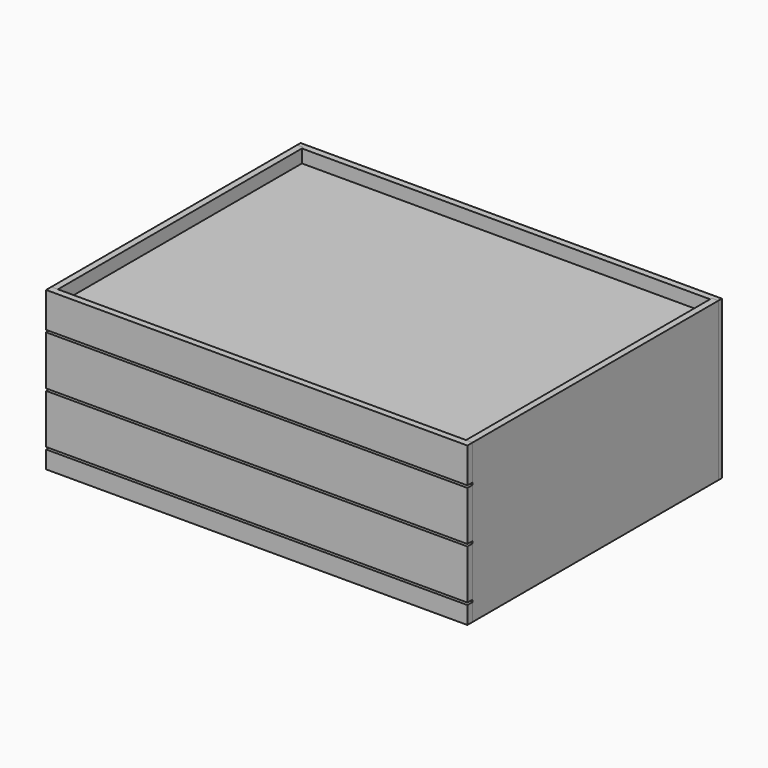
from build123d import *

# Parameters (mm, degrees)
F0_W      = 1219.2
F0_H      = 457.2
F1_DEPTH  = 19.05
F3_DEPTH  = 6.35
F5_DEPTH  = 457.2
F6_W      = 889
F6_H      = 19.05
F7_DEPTH  = 6.35
F10_DEPTH = 19.05
F11_W     = 1193.8
F11_H     = 19.05
F12_DEPTH = 6.35
F13_W     = 1200.15
F13_H     = 50.8
F13_W_2   = 19.05
F14_DEPTH = 19.05
F16_DEPTH = 895.35
F17_W     = 1200.15
F17_H     = 142.875
F17_W_2   = 19.05
F18_DEPTH = 19.05


with BuildPart() as f1:
    # F0 (on Front) → F1 (new body)
    with BuildSketch(Plane.XZ):
        Rectangle(F0_W, F0_H)
    extrude(amount=-F1_DEPTH)

    # F2 (on face) → F3 (cut)
    with BuildSketch(Plane.XZ):
        Polygon((-590.55, 228.6), (-609.6, 228.6), (-609.6, 190.5), (-609.6, 171.45), (-609.6, -228.6), (-590.55, -228.6), (-590.55, 171.45), (590.55, 171.45), (590.55, -228.6), (609.6, -228.6), (609.6, 171.45), (609.6, 190.5), (609.6, 228.6), (590.55, 228.6), (590.55, 190.5), (-590.55, 190.5), align=None)
    extrude(amount=-F3_DEPTH, mode=Mode.SUBTRACT)


with BuildPart() as f5:
    # F4 (on face) → F5 (new body, through all)
    with BuildSketch(Plane.XY.offset(228.6)):
        Polygon((-590.55, 6.35), (-609.6, 6.35), (-609.6, -882.65), (-590.55, -882.65), (-590.55, 0), align=None)
    extrude(amount=-F5_DEPTH)

    # F6 (on face) → F7 (cut)
    with BuildSketch(Plane.YZ.offset(-590.55)):
        with Locations((-438.15, 180.975)):
            Rectangle(F6_W, F6_H)
    extrude(amount=-F7_DEPTH, mode=Mode.SUBTRACT)


with BuildPart() as f8_1:
    # F8: instance of F5
    add(f5.part.mirror(Plane.YZ))


with BuildPart() as f10:
    # F9 (on face) → F10 (new body)
    with BuildSketch(Plane.XZ.offset(882.65)):
        Polygon((609.6, 228.6), (-590.55, 228.6), (-590.55, 190.5), (-596.9, 190.5), (-596.9, 171.45), (-590.55, 171.45), (-590.55, 127), (609.6, 127), align=None)
        Polygon((-590.55, 228.6), (-609.6, 228.6), (-609.6, 127), (-590.55, 127), (-590.55, 171.45), (-596.9, 171.45), (-596.9, 190.5), (-590.55, 190.5), align=None)
    extrude(amount=F10_DEPTH)

    # F11 (on face) → F12 (cut)
    with BuildSketch(Plane(origin=(0, -882.65, 0), x_dir=(-1, 0, 0), z_dir=(0, 1, 0))):
        with Locations((0, 180.975)):
            Rectangle(F11_W, F11_H)
    extrude(amount=-F12_DEPTH, mode=Mode.SUBTRACT)


with BuildPart() as f14:
    # F13 (on face) → F14 (new body)
    with BuildSketch(Plane.XZ.offset(882.65)):
        with Locations((9.525, -203.2)):
            Rectangle(F13_W, F13_H)
        with Locations((-600.075, -203.2)):
            Rectangle(F13_W_2, F13_H)
    extrude(amount=F14_DEPTH)


with BuildPart() as f16:
    # F15 (on face) → F16 (new body, through all)
    with BuildSketch(Plane.XZ.offset(-6.35)):
        Polygon((-590.55, 190.5), (-596.9, 190.5), (-596.9, 171.45), (-590.55, 171.45), (590.55, 171.45), (596.9, 171.45), (596.9, 190.5), (590.55, 190.5), align=None)
    extrude(amount=F16_DEPTH)


with BuildPart() as f18:
    # F17 (on face) → F18 (new body)
    with BuildSketch(Plane.XZ.offset(882.65)):
        with Locations((9.525, 49.2125)):
            Rectangle(F17_W, F17_H)
        with Locations((-600.075, 49.2125)):
            Rectangle(F17_W_2, F17_H)
    extrude(amount=F18_DEPTH)


with BuildPart() as f18b:
    # F17 (on face) → F18, piece 2 (new body)
    with BuildSketch(Plane.XZ.offset(882.65)):
        with Locations((-600.075, -100.0125)):
            Rectangle(F17_W_2, F17_H)
        with Locations((9.525, -100.0125)):
            Rectangle(F17_W, F17_H)
    extrude(amount=F18_DEPTH)


solid = Compound([f1.part, f5.part, f8_1.part, f10.part, f14.part, f16.part, f18.part, f18b.part])
